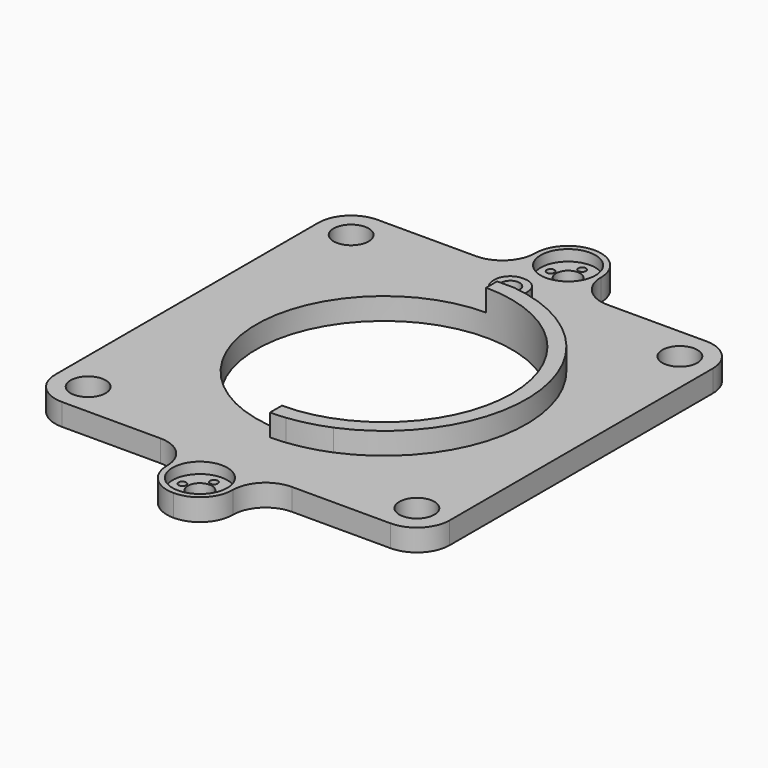
from build123d import *

# Parameters (mm, degrees)
SKETCH_R           = 4.25
PAD_DEPTH          = 10
SKETCH001_W        = 16
SKETCH001_H        = 16
POCKET_DEPTH       = 5
FILLET_R           = 7
SKETCH002_W        = 180
SKETCH002_H        = 180
SKETCH002_R        = 57.5
SKETCH002_R_2      = 8
PAD001_DEPTH       = 10
SKETCH003_R        = 58.25
POCKET001_DEPTH    = 20.0010001
SKETCH004_W        = 30
SKETCH004_H        = 30
SKETCH004_R        = 5.5
SKETCH004_R_2      = 1.75
PAD002_DEPTH       = 10
SKETCH005_R        = 12.5
POCKET002_DEPTH    = 5
FILLET001_R        = 14.99
FILLET001_FACE62_R = 4.25
POCKET003_DEPTH    = 10.001
POCKET004_DEPTH    = 10
FILLET002_R        = 7


with BuildPart() as part:
    # Sketch → Pad (new body)
    with BuildSketch(Plane.XY):
        with BuildLine():
            ThreePointArc((0, -57.5), (57.5, 0), (0, 57.5))
            Line((0, 64.5658578507), (0, 57.5))
            Line((-7.5, 64.5658578507), (0, 64.5658578507))
            Line((-7.5, 79.5658578507), (-7.5, 64.5658578507))
            Line((7.5, 79.5658578507), (-7.5, 79.5658578507))
            Line((7.5, 64.5658578507), (7.5, 79.5658578507))
            ThreePointArc((7, -64.6219776856), (64.9995131723, -0.2515697895), (7.5, 64.5658578507))
            Line((7, -64.6219776856), (7, -79.6219776856))
            Line((7, -79.6219776856), (0, -79.6219776856))
            Line((0, -79.6219776856), (0, -57.5))
        make_face()
        with Locations((0, 72.0658578507)):
            Circle(SKETCH_R, mode=Mode.SUBTRACT)
    extrude(amount=PAD_DEPTH)

    # Sketch001 (on Face13 of Pad) → Pocket (cut)
    with BuildSketch(Plane.XY.offset(10)):
        with Locations((-0.5, 72.5)):
            Rectangle(SKETCH001_W, SKETCH001_H)
    extrude(amount=-POCKET_DEPTH, mode=Mode.SUBTRACT)

    # Fillet
    fillet_edges = [part.edges().sort_by_distance(p)[0] for p in [
        (-7.5, 64.565858, 2.5),
        (-7.5, 79.565858, 2.5),
    ]]
    fillet(fillet_edges, radius=FILLET_R)

    # Sketch002 → Pad001 (join)
    with BuildSketch(Plane.XY):
        Rectangle(SKETCH002_W, SKETCH002_H)
        Circle(SKETCH002_R, mode=Mode.SUBTRACT)
        with Locations((75, -75)):
            Circle(SKETCH002_R_2, mode=Mode.SUBTRACT)
        with Locations((75, 75)):
            Circle(SKETCH002_R_2, mode=Mode.SUBTRACT)
        with Locations((-75, 75)):
            Circle(SKETCH002_R_2, mode=Mode.SUBTRACT)
        with Locations((-75, -75)):
            Circle(SKETCH002_R_2, mode=Mode.SUBTRACT)
    extrude(amount=-PAD001_DEPTH)

    # Sketch003 (on Face26 of Pad001) → Pocket001 (cut, through all)
    with BuildSketch(Plane(origin=(0, 0, -10), x_dir=(1, 0, 0), z_dir=(0, 0, -1))):
        Circle(SKETCH003_R)
    extrude(amount=-POCKET001_DEPTH, mode=Mode.SUBTRACT)

    # Sketch004 (on Face2 of Pocket001) → Pad002 (join)
    with BuildSketch(Plane.XY):
        with Locations((0, 105)):
            Rectangle(SKETCH004_W, SKETCH004_H)
        with Locations((0, 105)):
            Circle(SKETCH004_R, mode=Mode.SUBTRACT)
        with Locations((8, 105)):
            Circle(SKETCH004_R_2, mode=Mode.SUBTRACT)
        with Locations((0, 113)):
            Circle(SKETCH004_R_2, mode=Mode.SUBTRACT)
        with Locations((-8, 105)):
            Circle(SKETCH004_R_2, mode=Mode.SUBTRACT)
        with Locations((0, 97)):
            Circle(SKETCH004_R_2, mode=Mode.SUBTRACT)
        with Locations((0, -105)):
            Rectangle(SKETCH004_W, SKETCH004_H)
        with Locations((0, -105)):
            Circle(SKETCH004_R, mode=Mode.SUBTRACT)
        with Locations((8, -105)):
            Circle(SKETCH004_R_2, mode=Mode.SUBTRACT)
        with Locations((0, -97)):
            Circle(SKETCH004_R_2, mode=Mode.SUBTRACT)
        with Locations((-8, -105)):
            Circle(SKETCH004_R_2, mode=Mode.SUBTRACT)
        with Locations((0, -113)):
            Circle(SKETCH004_R_2, mode=Mode.SUBTRACT)
    extrude(amount=-PAD002_DEPTH)

    # Sketch005 (on Face13 of Pad002) → Pocket002 (cut)
    with BuildSketch(Plane.XY):
        with Locations((0, 105)):
            Circle(SKETCH005_R)
        with Locations((0, -105)):
            Circle(SKETCH005_R)
    extrude(amount=-POCKET002_DEPTH, mode=Mode.SUBTRACT)

    # Fillet001
    fillet001_edges = [part.edges().sort_by_distance(p)[0] for p in [
        (15, -120, -5),
        (-15, -120, -5),
        (15, -90, -5),
        (-15, -90, -5),
        (15, 120, -5),
        (-15, 120, -5),
        (15, 90, -5),
        (-15, 90, -5),
        (90, 90, -5),
        (90, -90, -5),
        (-90, -90, -5),
        (-90, 90, -5),
    ]]
    fillet(fillet001_edges, radius=FILLET001_R)

    # Fillet001 Face62 → Pocket003 (cut, through all)
    with BuildSketch(Plane(origin=(0, 72.0658578507, 0), x_dir=(0, 1, 0), z_dir=(0, 0, 1))):
        Circle(FILLET001_FACE62_R)
    extrude(amount=-POCKET003_DEPTH, mode=Mode.SUBTRACT)

    # Sketch006 (on Face56 of Pocket003) → Pocket004 (cut)
    with BuildSketch(Plane.XY.offset(10)):
        with BuildLine():
            ThreePointArc((-25, -60), (0, -65), (25, -60))
            Line((25, -60), (25, -79.1454357496))
            ThreePointArc((-25, -79.1454357496), (0, -83), (25, -79.1454357496))
            Line((-25, -60), (-25, -79.1454357496))
        make_face()
    extrude(amount=-POCKET004_DEPTH, mode=Mode.SUBTRACT)

    # Fillet002
    fillet002_edges = [part.edges().sort_by_distance(p)[0] for p in [
        (7.5, 79.565858, 2.5),
    ]]
    fillet(fillet002_edges, radius=FILLET002_R)


solid = part.part
